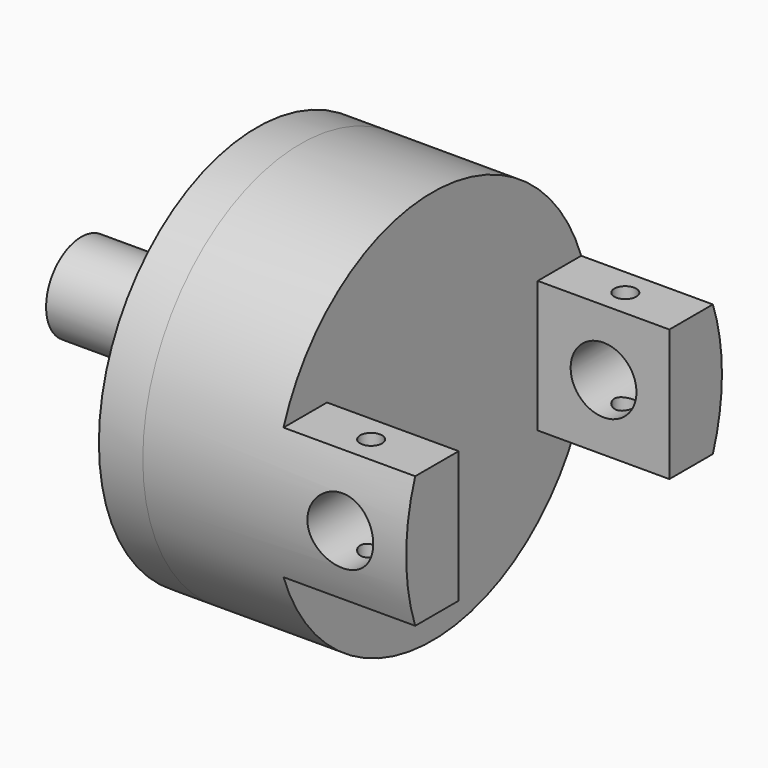
from build123d import *

# Parameters (mm, degrees)
F0_R                   = 28.5496
F1_DEPTH               = 38.1
F2_W                   = 20.32
F2_H                   = 22.1844250173
F2_H_2                 = 21.4777487576
F3_DEPTH               = 38.1
F3_DEPTH_BACK          = 38.1
F4_W                   = 45.6145062673
F4_H                   = 38.1
F5_DEPTH               = 25.4
F5_DEPTH_BACK          = 25.4
F7_D                   = 9.525
F7_DEPTH               = 25.4
F7_CBORE_D             = 9.525
F7_CBORE_DEPTH         = 6.35
F7_TIP                 = 2.8615986981
F9_D                   = 9.525
F9_DEPTH               = 25.4
F9_CBORE_D             = 9.525
F9_CBORE_DEPTH         = 6.35
F9_TIP                 = 2.8615986981
F12_D                  = 3.175
F12_DEPTH              = 25.4
F12_CBORE_D            = 3.175
F12_CBORE_DEPTH        = 6.35
F12_TIP                = 0.9538662327
F12_ON_F11_D           = 3.175
F12_ON_F11_DEPTH       = 25.4
F12_ON_F11_CBORE_D     = 3.175
F12_ON_F11_CBORE_DEPTH = 6.35
F12_ON_F11_TIP         = 0.9538662327
F13_R                  = 28.5496
F14_DEPTH              = 6.35
F15_R                  = 6.35
F16_DEPTH              = 25.4
F17_R                  = 25.4
F17_R_2                = 6.35
F18_DEPTH              = 10.16


with BuildPart() as f1:
    # F0 (on Right) → F1 (new body)
    with BuildSketch(Plane.YZ):
        Circle(F0_R)
    extrude(amount=F1_DEPTH)

    # F2 (on Front) → F3 (cut, two sides)
    with BuildSketch(Plane.XZ) as f3_sk:
        with Locations((29.21, 20.6172125086)):
            Rectangle(F2_W, F2_H)
        with Locations((29.21, -20.2638743788)):
            Rectangle(F2_W, F2_H_2)
    extrude(amount=-F3_DEPTH, mode=Mode.SUBTRACT)
    extrude(f3_sk.sketch, amount=F3_DEPTH_BACK, mode=Mode.SUBTRACT)

    # F4 (on Top) → F5 (cut, two sides)
    with BuildSketch(Plane.XY) as f5_sk:
        with Locations((41.8572531337, 0)):
            Rectangle(F4_W, F4_H)
    extrude(amount=-F5_DEPTH, mode=Mode.SUBTRACT)
    extrude(f5_sk.sketch, amount=F5_DEPTH_BACK, mode=Mode.SUBTRACT)

    # F7
    with Locations(Plane.XZ.offset(-19.05)):
        with Locations((28.575, 0)):
            CounterBoreHole(F7_D / 2, F7_CBORE_D / 2, F7_CBORE_DEPTH, depth=F7_DEPTH)
            with Locations((0, 0, -(F7_DEPTH + F7_TIP / 2))):  # 118° drill point
                Cone(0, F7_D / 2, F7_TIP, mode=Mode.SUBTRACT)

    # F9
    with Locations(Plane(origin=(0, -19.05, 0), x_dir=(-1, 0, 0), z_dir=(0, 1, 0))):
        with Locations((-28.575, 0)):
            CounterBoreHole(F9_D / 2, F9_CBORE_D / 2, F9_CBORE_DEPTH, depth=F9_DEPTH)
            with Locations((0, 0, -(F9_DEPTH + F9_TIP / 2))):  # 118° drill point
                Cone(0, F9_D / 2, F9_TIP, mode=Mode.SUBTRACT)

    # F12
    with Locations(Plane.XY.offset(9.525)):
        with Locations((28.575, 22.9819130483)):
            CounterBoreHole(F12_D / 2, F12_CBORE_D / 2, F12_CBORE_DEPTH, depth=F12_DEPTH)
            with Locations((0, 0, -(F12_DEPTH + F12_TIP / 2))):  # 118° drill point
                Cone(0, F12_D / 2, F12_TIP, mode=Mode.SUBTRACT)

    # F12 on F11
    with Locations(Plane.XY.offset(9.525)):
        with Locations((28.575, -22.9819130483)):
            CounterBoreHole(F12_ON_F11_D / 2, F12_ON_F11_CBORE_D / 2, F12_ON_F11_CBORE_DEPTH, depth=F12_ON_F11_DEPTH)
            with Locations((0, 0, -(F12_ON_F11_DEPTH + F12_ON_F11_TIP / 2))):  # 118° drill point
                Cone(0, F12_ON_F11_D / 2, F12_ON_F11_TIP, mode=Mode.SUBTRACT)

    # F13 (on face) → F14 (join)
    with BuildSketch(Plane(origin=(0, 0, 0), x_dir=(0, -1, 0), z_dir=(-1, 0, 0))):
        Circle(F13_R)
    extrude(amount=F14_DEPTH)

    # F15 (on face) → F16 (join)
    with BuildSketch(Plane(origin=(-6.35, 0, 0), x_dir=(0, -1, 0), z_dir=(-1, 0, 0))):
        Circle(F15_R)
    extrude(amount=F16_DEPTH)

    # F17 (on face) → F18 (cut)
    with BuildSketch(Plane(origin=(-6.35, 0, 0), x_dir=(0, -1, 0), z_dir=(-1, 0, 0))):
        Circle(F17_R)
        Circle(F17_R_2, mode=Mode.SUBTRACT)
    extrude(amount=-F18_DEPTH, mode=Mode.SUBTRACT)


solid = f1.part
